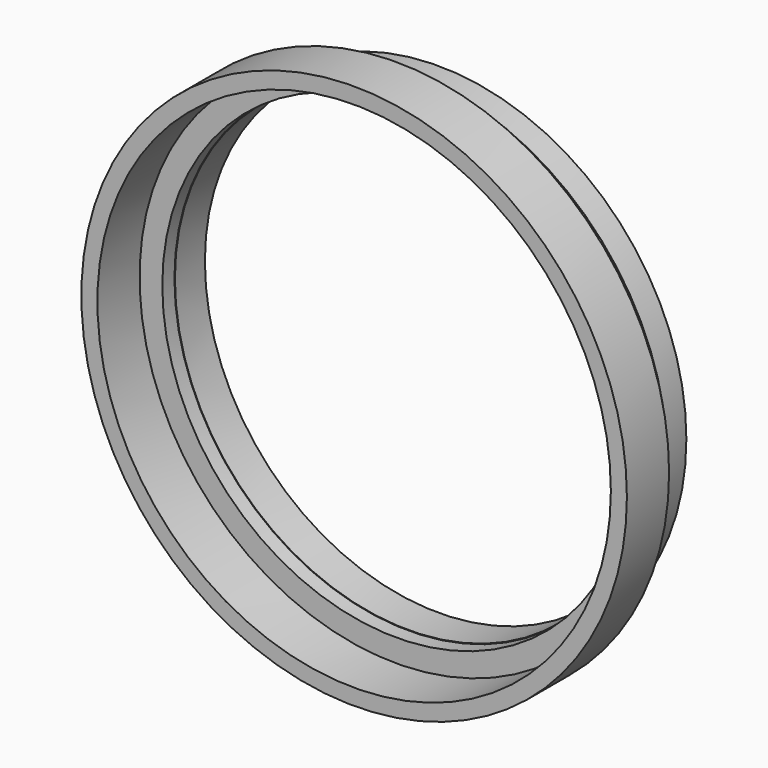
from build123d import *

# Parameters (mm, degrees)
F0_R     = 44.67
F0_R_2   = 42.07
F1_DEPTH = 6.75
F2_R     = 46.625
F2_R_2   = 42.16
F3_DEPTH = 2.73
F4_R     = 49.14
F4_R_2   = 46.25
F5_DEPTH = 9.5


with BuildPart() as f1:
    # F0 (on Front) → F1 (new body)
    with BuildSketch(Plane.XZ):
        Circle(F0_R)
        Circle(F0_R_2, mode=Mode.SUBTRACT)
    extrude(amount=F1_DEPTH)

    # F2 (on face) → F3 (join)
    with BuildSketch(Plane.XZ.offset(6.75)):
        Circle(F2_R)
        Circle(F2_R_2, mode=Mode.SUBTRACT)
    extrude(amount=F3_DEPTH)

    # F4 (on face) → F5 (join)
    with BuildSketch(Plane.XZ.offset(9.48)):
        Circle(F4_R)
        Circle(F4_R_2, mode=Mode.SUBTRACT)
    extrude(amount=F5_DEPTH)


solid = f1.part
